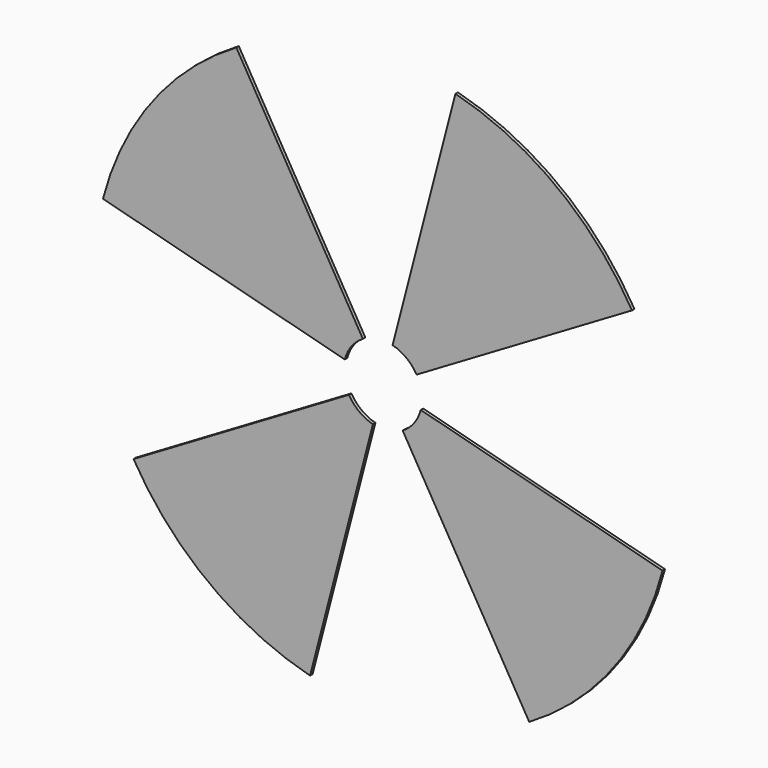
from build123d import *

# Parameters (mm, degrees)
F3_DEPTH = 2.54


with BuildPart() as f3:
    # F0 (on Front) → F3 (new body, symmetric)
    with BuildSketch(Plane.XZ):
        with BuildLine():
            Line((55.5766792975, 32.6588840608), (409.5086387626, 240.6422140416))
            ThreePointArc((409.5086387626, 240.6422140416), (286.2468612979, 379.036587676), (119.4065940349, 459.726076812))
            Line((119.4065940349, 459.726076812), (16.2053284217, 62.3919651925))
            ThreePointArc((16.2053284217, 62.3919651925), (38.8481426383, 51.4411489314), (55.5766792975, 32.6588840608))
        make_face()
    extrude(amount=F3_DEPTH, both=True)


with BuildPart() as f3b:
    # F0 (on Front) → F3, piece 2 (new body, symmetric)
    with BuildSketch(Plane.XZ):
        with BuildLine():
            Line((-32.6588840608, 55.5766792975), (-240.6422140416, 409.5086387626))
            ThreePointArc((-240.6422140416, 409.5086387626), (-379.036587676, 286.2468612979), (-459.726076812, 119.4065940349))
            Line((-459.726076812, 119.4065940349), (-62.3919651925, 16.2053284217))
            ThreePointArc((-62.3919651925, 16.2053284217), (-51.4411489314, 38.8481426383), (-32.6588840608, 55.5766792975))
        make_face()
    extrude(amount=F3_DEPTH, both=True)


with BuildPart() as f3c:
    # F0 (on Front) → F3, piece 3 (new body, symmetric)
    with BuildSketch(Plane.XZ):
        with BuildLine():
            ThreePointArc((-409.5086387626, -240.6422140416), (-286.2468612979, -379.036587676), (-119.4065940349, -459.726076812))
            Line((-119.4065940349, -459.726076812), (-16.2053284217, -62.3919651925))
            ThreePointArc((-16.2053284217, -62.3919651925), (-38.8481426383, -51.4411489314), (-55.5766792975, -32.6588840608))
            Line((-55.5766792975, -32.6588840608), (-409.5086387626, -240.6422140416))
        make_face()
    extrude(amount=F3_DEPTH, both=True)


with BuildPart() as f3d:
    # F0 (on Front) → F3, piece 4 (new body, symmetric)
    with BuildSketch(Plane.XZ):
        with BuildLine():
            ThreePointArc((240.6422140416, -409.5086387626), (379.036587676, -286.2468612979), (459.726076812, -119.4065940349))
            Line((459.726076812, -119.4065940349), (62.3919651925, -16.2053284217))
            ThreePointArc((62.3919651925, -16.2053284217), (51.4411489314, -38.8481426383), (32.6588840608, -55.5766792975))
            Line((32.6588840608, -55.5766792975), (240.6422140416, -409.5086387626))
        make_face()
    extrude(amount=F3_DEPTH, both=True)


solid = Compound([f3.part, f3b.part, f3c.part, f3d.part])
